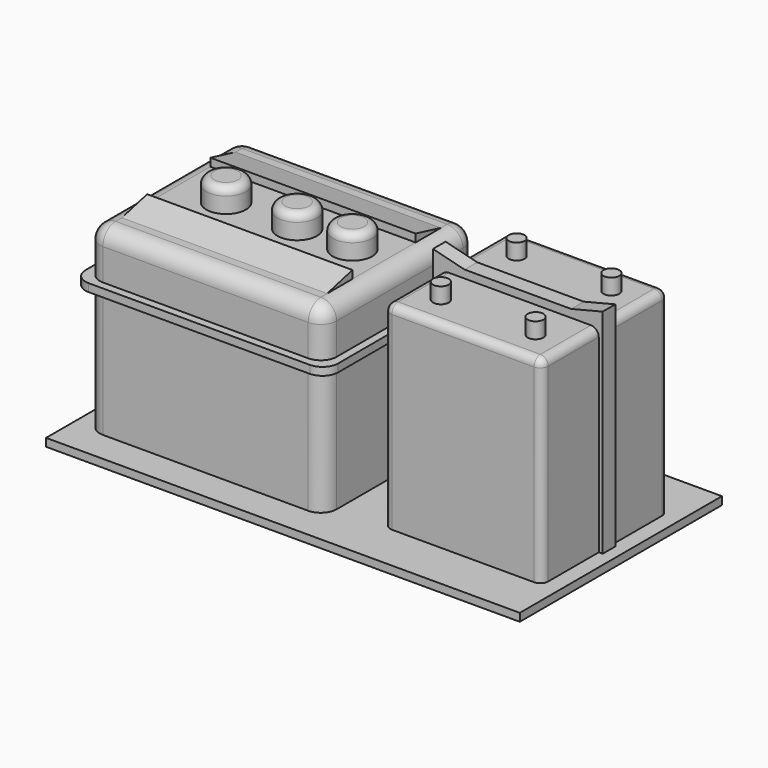
from build123d import *

# Parameters (mm, degrees)
F1_W      = 30
F1_H      = 24
F2_DEPTH  = 24
F3_R      = 2
F4_W      = 32
F4_H      = 1
F5_DEPTH  = 13
F6_R      = 2
F7_R      = 2.5
F8_DEPTH  = 3
F9_R      = 1
F11_DEPTH = 26
F13_W     = 20
F13_H     = 20
F14_DEPTH = 26
F15_R     = 1
F16_R     = 1
F17_DEPTH = 2
F19_DEPTH = 1
F20_W     = 60
F20_H     = 32
F21_DEPTH = 1


with BuildPart() as f2:
    # F1 (on Top) → F2 (new body)
    with BuildSketch(Plane.XY):
        with Locations((-15, 0)):
            Rectangle(F1_W, F1_H)
    extrude(amount=F2_DEPTH)

    # F3
    f3_edges = [f2.edges().sort_by_distance(p)[0] for p in [
        (-30, 12, 12),
        (0, 12, 12),
        (-30, -12, 12),
        (0, -12, 12),
        (-15, 12, 24),
        (-30, 0, 24),
        (-15, -12, 24),
        (0, 0, 24),
    ]]
    fillet(f3_edges, radius=F3_R)

    # F4 (on Front) → F5 (join, symmetric)
    with BuildSketch(Plane.XZ):
        with Locations((-15, 17.5)):
            Rectangle(F4_W, F4_H)
    extrude(amount=F5_DEPTH, both=True)

    # F6
    f6_edges = [f2.edges().sort_by_distance(p)[0] for p in [
        (-31, 13, 17.5),
        (-31, -13, 17.5),
        (1, 13, 17.5),
        (1, -13, 17.5),
    ]]
    fillet(f6_edges, radius=F6_R)

    # F7 (on face) → F8 (join)
    with BuildSketch(Plane.XY.offset(24)):
        with Locations((-22, 0)):
            Circle(F7_R)
        with Locations((-13, 0)):
            Circle(F7_R)
        with Locations((-6, 0)):
            Circle(F7_R)
    extrude(amount=F8_DEPTH)

    # F9
    f9_edges = [f2.edges().sort_by_distance(p)[0] for p in [
        (-24.5, 0, 27),
        (-15.5, 0, 27),
        (-8.5, 0, 27),
    ]]
    fillet(f9_edges, radius=F9_R)

    # F10 (on offset) → F11 (join)
    with BuildSketch(Plane.YZ.offset(-2)):
        Polygon((-9, 24), (-5, 24), (-5, 25), align=None)
    extrude(amount=-F11_DEPTH)

    # F12: F2 across plane


with BuildPart() as f2_1:
    add(f2.part)
    add(f2.part.mirror(Plane.XZ))



with BuildPart() as f14:
    # F13 (on Top) → F14 (new body)
    with BuildSketch(Plane.XY):
        with Locations((16, 0)):
            Rectangle(F13_W, F13_H)
    extrude(amount=F14_DEPTH)

    # F15
    f15_edges = [f14.edges().sort_by_distance(p)[0] for p in [
        (26, 10, 13),
        (16, 10, 26),
        (6, 0, 26),
        (16, -10, 26),
        (26, 0, 26),
        (26, -10, 13),
        (6, 10, 13),
        (6, -10, 13),
    ]]
    fillet(f15_edges, radius=F15_R)

    # F16 (on face) → F17 (join)
    with BuildSketch(Plane.XY.offset(26)):
        with Locations((10, 6)):
            Circle(F16_R)
        with Locations((22, 6)):
            Circle(F16_R)
        with Locations((10, -6)):
            Circle(F16_R)
        with Locations((22, -6)):
            Circle(F16_R)
    extrude(amount=F17_DEPTH)

    # F18 (on Front) → F19 (join, symmetric)
    with BuildSketch(Plane.XZ):
        Polygon((5, 28), (5, 0), (26.5, 0), (26.5, 28), (22.5, 27), (9, 27), align=None)
    extrude(amount=F19_DEPTH, both=True)


with BuildPart() as f2_2:
    add(f2_1.part)

    add(f14.part)  # F21 merges F14
    # F20 (on Top) → F21 (join)
    with BuildSketch(Plane.XY):
        with Locations((-2, 0)):
            Rectangle(F20_W, F20_H)
    extrude(amount=F21_DEPTH)


solid = f2_2.part
